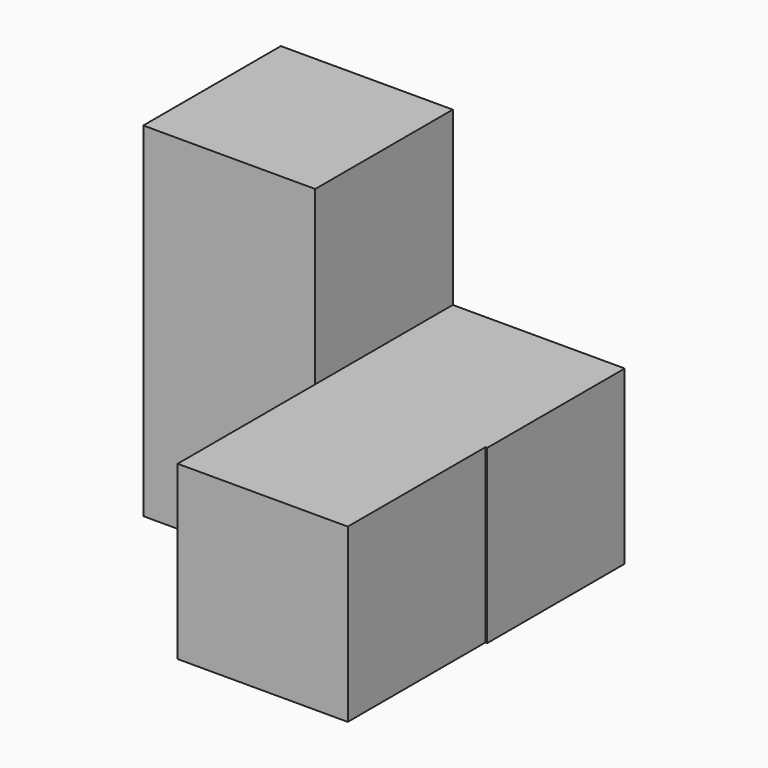
from build123d import *

# Parameters (mm, degrees)
F0_W     = 19.05
F0_H     = 19.05
F1_DEPTH = 38.1
F2_W     = 19.05
F2_H     = 19.05
F3_DEPTH = 19.05
F4_W     = 18.848901
F4_H     = 19.05
F5_DEPTH = 19.05


with BuildPart() as f1:
    # F0 (on Top) → F1 (new body)
    with BuildSketch(Plane.XY):
        with Locations((-28.373901, -13.033835)):
            Rectangle(F0_W, F0_H)
    extrude(amount=F1_DEPTH)

    # F2 (on face) → F3 (join)
    with BuildSketch(Plane.YZ.offset(-18.848901)):
        with Locations((-13.033835, 9.525)):
            Rectangle(F2_W, F2_H)
    extrude(amount=F3_DEPTH)

    # F4 (on face) → F5 (join)
    with BuildSketch(Plane.XZ.offset(22.558835)):
        with Locations((-9.42445, 9.525)):
            Rectangle(F4_W, F4_H)
    extrude(amount=F5_DEPTH)


solid = f1.part
